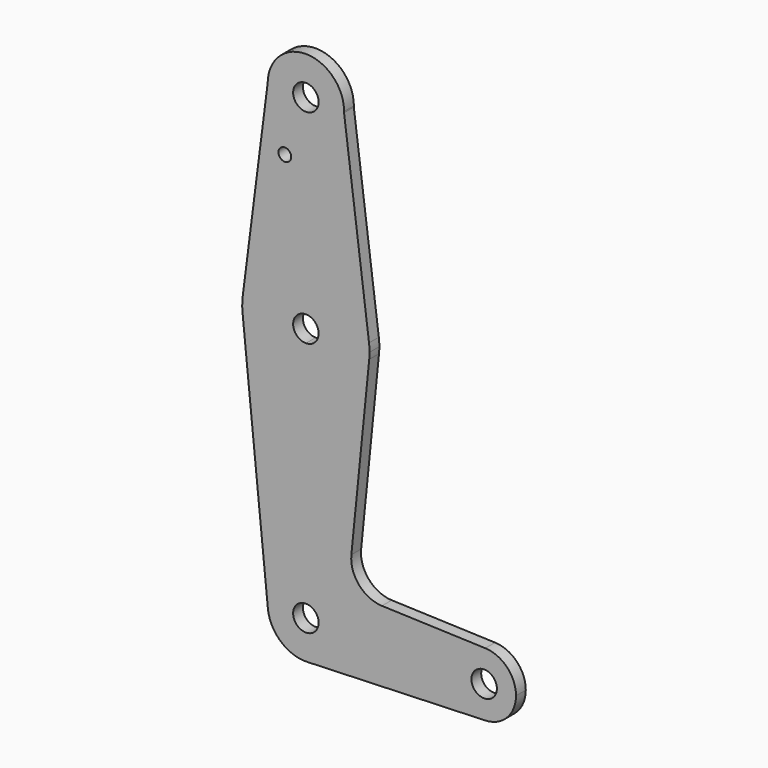
from build123d import *

# Parameters (mm, degrees)
F0_R     = 3.175
F0_R_2   = 1.5875
F1_DEPTH = 3.048


with BuildPart() as f1:
    # F0 (on Front) → F1 (new body)
    with BuildSketch(Plane.XZ):
        with BuildLine():
            ThreePointArc((-1.095, 72.51598), (-1.091347, 72.66825), (-1.090129, 72.820558))
            ThreePointArc((-1.090129, 72.820558), (-10.596268, 82.34554), (-20.140054, 72.858279))
            ThreePointArc((-20.140054, 72.858279), (-10.786295, 63.297096), (-1.095, 72.51598))
        make_face()
        with Locations((-10.615129, 72.820558)):
            Circle(F0_R, mode=Mode.SUBTRACT)
        with BuildLine():
            ThreePointArc((-1.095, 72.51598), (-10.786295, 63.297096), (-20.140054, 72.858279))
            Line((-20.140054, 72.858279), (-26.362777, 24.027344))
            ThreePointArc((-26.362777, 24.027344), (-10.622928, 37.895556), (5.13054, 24.042817))
            Line((5.13054, 24.042817), (-1.095, 72.51598))
        make_face()
        with Locations((-15.868815, 58.545758)):
            Circle(F0_R_2, mode=Mode.SUBTRACT)
        with BuildLine():
            ThreePointArc((-7.440129, 22.020558), (-12.860193, 24.265622), (-10.615129, 18.845558))
            ThreePointArc((-10.615129, 18.845558), (-8.370065, 19.775494), (-7.440129, 22.020558))
        make_face()
        with BuildLine():
            ThreePointArc((5.13054, 24.042817), (-10.622928, 37.895556), (-26.362777, 24.027344))
            ThreePointArc((-26.362777, 24.027344), (-26.488726, 22.231558), (-26.410554, 20.433058))
            ThreePointArc((-26.410554, 20.433058), (-21.264403, 10.247343), (-10.615129, 6.145558))
            ThreePointArc((-10.615129, 6.145558), (0.034145, 10.247343), (5.180297, 20.433058))
            ThreePointArc((5.180297, 20.433058), (5.239965, 21.225812), (5.259871, 22.020558))
            ThreePointArc((5.259871, 22.020558), (5.227505, 23.033754), (5.13054, 24.042817))
        make_face()
        with BuildLine():
            ThreePointArc((-7.440129, 22.020558), (-8.370065, 19.775494), (-10.615129, 18.845558))
            ThreePointArc((-10.615129, 18.845558), (-12.860193, 24.265622), (-7.440129, 22.020558))
        make_face(mode=Mode.SUBTRACT)
        with BuildLine():
            ThreePointArc((-10.615129, 6.145558), (-21.264403, 10.247343), (-26.410554, 20.433058))
            Line((-26.410554, 20.433058), (-20.092384, -42.431942))
            ThreePointArc((-20.092384, -42.431942), (-17.679058, -35.089877), (-10.615129, -31.954442))
            Line((-10.615129, -31.954442), (-10.615129, 6.145558))
        make_face()
        with BuildLine():
            ThreePointArc((5.180297, 20.433058), (0.034145, 10.247343), (-10.615129, 6.145558))
            Line((-10.615129, 6.145558), (-10.615129, -31.954442))
            ThreePointArc((-10.615129, -31.954442), (-3.879937, -34.74425), (-1.090129, -41.479442))
            ThreePointArc((-1.090129, -41.479442), (-3.76072, -48.093269), (-10.27495, -50.998365))
            Line((-10.27495, -50.998365), (34.117276, -49.411916))
            ThreePointArc((34.117276, -49.411916), (25.897371, -41.479442), (34.117276, -33.546967))
            Line((34.117276, -33.546967), (8.353199, -32.629736))
            ThreePointArc((8.353199, -32.629736), (2.646075, -29.911979), (0.725707, -23.88955))
            Line((0.725707, -23.88955), (5.180297, 20.433058))
        make_face()
        with BuildLine():
            ThreePointArc((-7.440129, -41.479442), (-8.370065, -39.234378), (-10.615129, -38.304442))
            ThreePointArc((-10.615129, -38.304442), (-12.860193, -43.724506), (-7.440129, -41.479442))
        make_face()
        with BuildLine():
            ThreePointArc((-10.615129, -31.954442), (-17.679058, -35.089877), (-20.092384, -42.431942))
            ThreePointArc((-20.092384, -42.431942), (-16.877512, -48.656362), (-10.27495, -50.998365))
            ThreePointArc((-10.27495, -50.998365), (-3.76072, -48.093269), (-1.090129, -41.479442))
            ThreePointArc((-1.090129, -41.479442), (-3.879937, -34.74425), (-10.615129, -31.954442))
        make_face()
        with BuildLine():
            ThreePointArc((-7.440129, -41.479442), (-12.860193, -43.724506), (-10.615129, -38.304442))
            ThreePointArc((-10.615129, -38.304442), (-8.370065, -39.234378), (-7.440129, -41.479442))
        make_face(mode=Mode.SUBTRACT)
        with BuildLine():
            ThreePointArc((34.117276, -33.546967), (25.897371, -41.479442), (34.117276, -49.411916))
            ThreePointArc((34.117276, -49.411916), (39.546504, -46.991352), (41.772371, -41.479442))
            ThreePointArc((41.772371, -41.479442), (39.546504, -35.967531), (34.117276, -33.546967))
        make_face()
        with Locations((33.834871, -41.479442)):
            Circle(F0_R, mode=Mode.SUBTRACT)
    extrude(amount=F1_DEPTH)


solid = f1.part
